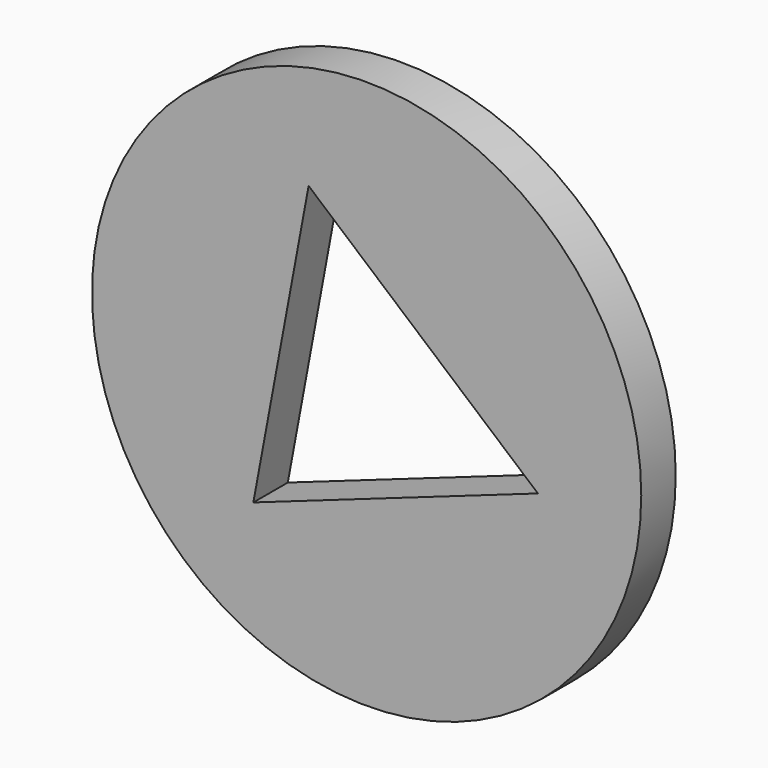
from build123d import *

# Parameters (mm, degrees)
F0_R     = 13.7
F1_DEPTH = 1.075
F3_DEPTH = 2.15


with BuildPart() as f1:
    # F0 (on Front) → F1 (new body, symmetric)
    with BuildSketch(Plane.XZ):
        Circle(F0_R)
    extrude(amount=F1_DEPTH, both=True)

    # F2 (on face) → F3 (cut, through all)
    with BuildSketch(Plane.XZ.offset(1.075)):
        Polygon((-5.651282, -6.603818), (8.544715, -1.592245), (-2.893433, 8.196062), align=None)
    extrude(amount=-F3_DEPTH, mode=Mode.SUBTRACT)


solid = f1.part
